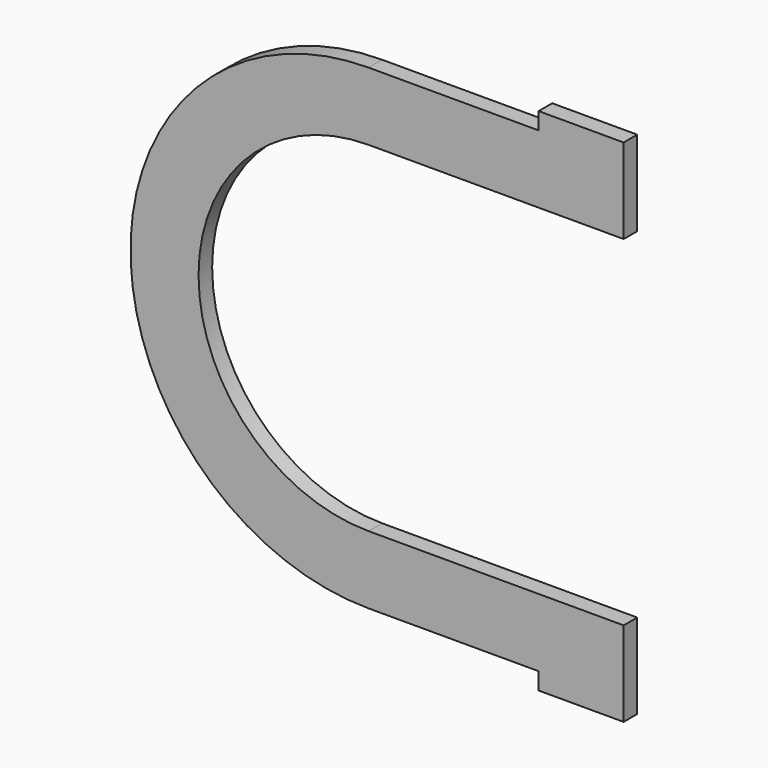
from build123d import *

# Parameters (mm, degrees)
F1_DEPTH = 12.7


with BuildPart() as f1:
    # F0 (on Front) → F1 (new body)
    with BuildSketch(Plane.XZ):
        with BuildLine():
            Line((0, -177.8), (127, -177.8))
            Line((127, -177.8), (127, -190.5))
            Line((127, -190.5), (190.5, -190.5))
            Line((190.5, -190.5), (190.5, -177.8))
            Line((190.5, -177.8), (190.5, -127))
            Line((190.5, -127), (127, -127))
            Line((127, -127), (0, -127))
            ThreePointArc((0, -127), (-127, 0), (0, 127))
            Line((0, 127), (127, 127))
            Line((127, 127), (190.5, 127))
            Line((190.5, 127), (190.5, 177.8))
            Line((190.5, 177.8), (190.5, 190.5))
            Line((190.5, 190.5), (127, 190.5))
            Line((127, 190.5), (127, 177.8))
            Line((127, 177.8), (0, 177.8))
            ThreePointArc((0, 177.8), (-177.8, 0), (0, -177.8))
        make_face()
    extrude(amount=F1_DEPTH)


solid = f1.part
